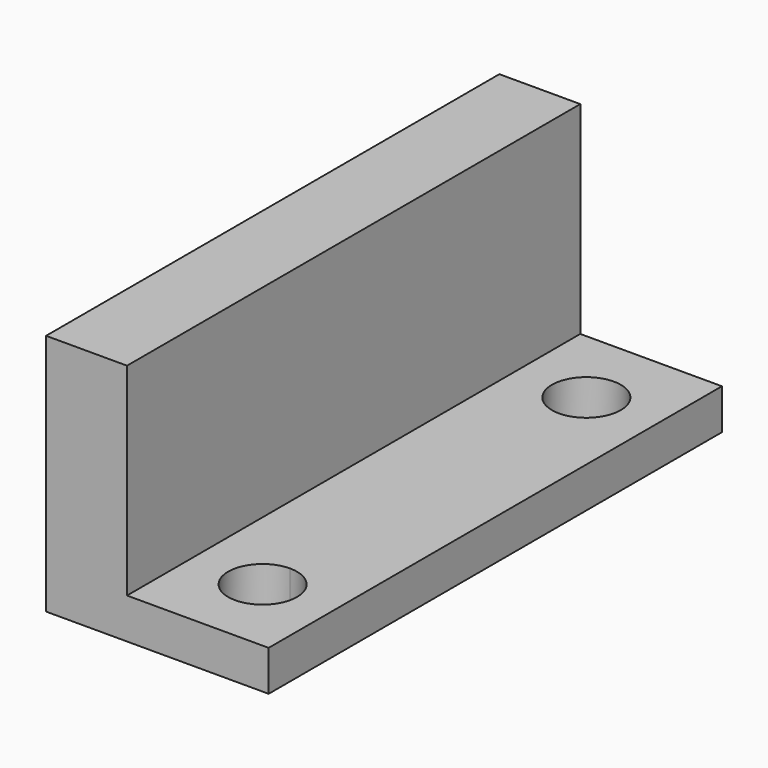
from build123d import *

# Parameters (mm, degrees)
F1_DEPTH = 14
F3_DEPTH = 2


with BuildPart() as f1:
    # F0 (on Front) → F1 (new body, symmetric)
    with BuildSketch(Plane.XZ):
        Polygon((-5.5, 12), (-5.5, 0), (5.5, 0), (5.5, 2), (-1.5, 2), (-1.5, 12), align=None)
    extrude(amount=F1_DEPTH, both=True)

    # F2 (on Top) → F3 (cut, through all)
    with BuildSketch(Plane.XY):
        with BuildLine():
            ThreePointArc((3.7, -10), (3.202082, -8.797918), (2, -8.3))
            ThreePointArc((2, -8.3), (0.797918, -11.202082), (3.7, -10))
        make_face()
        with BuildLine():
            ThreePointArc((3.7, 10), (0.797918, 11.202082), (2, 8.3))
            ThreePointArc((2, 8.3), (3.202082, 8.797918), (3.7, 10))
        make_face()
    extrude(amount=F3_DEPTH, mode=Mode.SUBTRACT)


solid = f1.part
